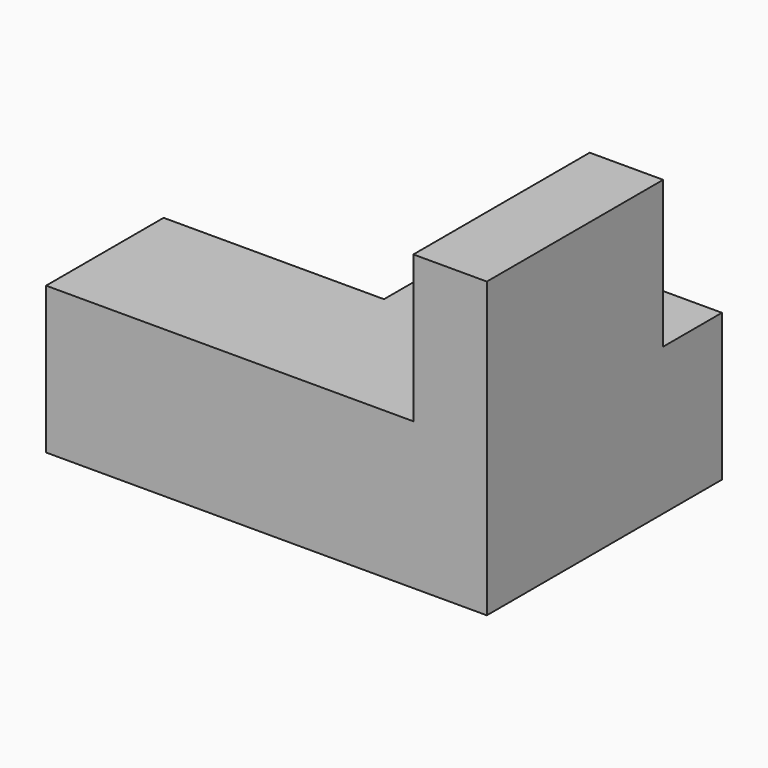
from build123d import *

# Parameters (mm, degrees)
F0_W     = 152.4
F0_H     = 101.6
F1_DEPTH = 50.8
F2_W     = 25.4
F2_H     = 76.2
F3_DEPTH = 50.8
F4_W     = 76.2
F4_H     = 50.8
F5_DEPTH = 50.801


with BuildPart() as f1:
    # F0 (on Top) → F1 (new body)
    with BuildSketch(Plane.XY):
        with Locations((-76.2, 50.8)):
            Rectangle(F0_W, F0_H)
    extrude(amount=F1_DEPTH)

    # F2 (on face) → F3 (join)
    with BuildSketch(Plane.XY.offset(50.8)):
        with Locations((-12.7, 38.1)):
            Rectangle(F2_W, F2_H)
    extrude(amount=F3_DEPTH)

    # F4 (on face) → F5 (cut, through all)
    with BuildSketch(Plane.XY.offset(50.8)):
        with Locations((-114.3, 76.2)):
            Rectangle(F4_W, F4_H)
    extrude(amount=-F5_DEPTH, mode=Mode.SUBTRACT)


solid = f1.part
